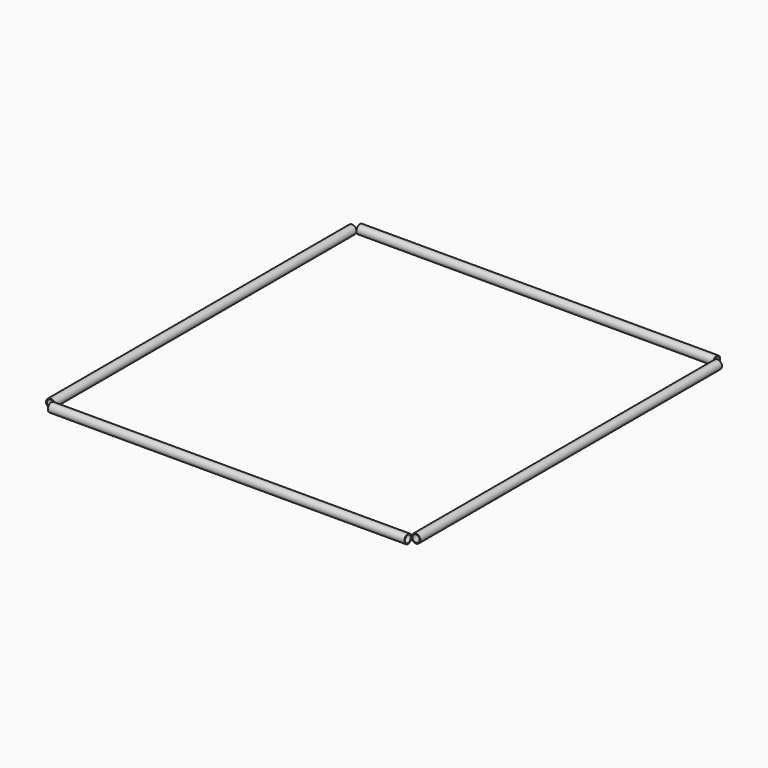
from build123d import *

# Parameters (mm, degrees)
F2_R   = 15.875
F2_R_2 = 12.827
F6_R   = 15.875
F6_R_2 = 12.827


with BuildPart() as f3:
    # F3: sweep along a path in F0
    with BuildLine(Plane.XY) as f3_path:
        Line((-635, 671.2856875498), (-635, -671.2856875498))
    # F2 (on plane+point) → F3 (sweep)
    with BuildSketch(Plane.XZ.offset(671.2856875498)):
        with Locations((-650.875, 0)):
            Circle(F2_R)
        with Locations((-650.875, 0)):
            Circle(F2_R_2, mode=Mode.SUBTRACT)
    sweep(path=f3_path.line)


with BuildPart() as f4_1:
    # F4: instance of F3
    add(f3.part.mirror(Plane.YZ))


with BuildPart() as f7:
    # F7: sweep along a path in F0
    with BuildLine(Plane.XY) as f7_path:
        Line((-635, -671.2856875498), (635, -671.2856875498))
    # F6 (on plane+point) → F7 (sweep)
    with BuildSketch(Plane.YZ.offset(-635)):
        with Locations((-687.1606875498, 0)):
            Circle(F6_R)
        with Locations((-687.1606875498, 0)):
            Circle(F6_R_2, mode=Mode.SUBTRACT)
    sweep(path=f7_path.line)


with BuildPart() as f8_1:
    # F8: instance of F7
    add(f7.part.mirror(Plane.XZ))


solid = Compound([f3.part, f4_1.part, f7.part, f8_1.part])
